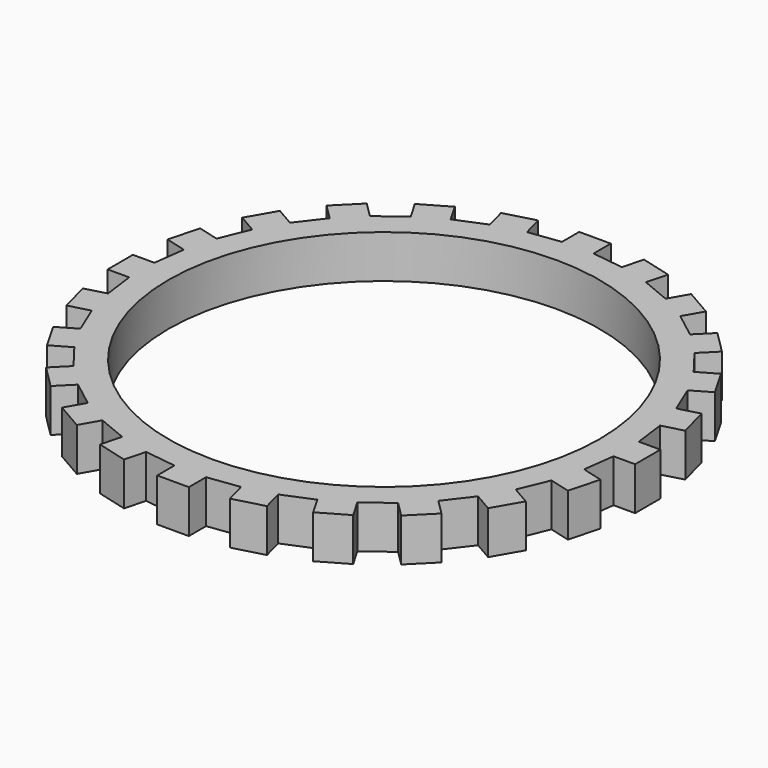
from build123d import *

# Parameters (mm, degrees)
SKETCH_R  = 15
PAD_DEPTH = 3


with BuildPart() as part:
    # Sketch → Pad (new body)
    with BuildSketch(Plane.XY):
        Polygon((-15.146858, 7.474872), (-16.445896, 8.224872), (-15.345896, 10.130128), (-14.046858, 9.380128), (-12.696102, 11.140467), (-13.756762, 12.201128), (-12.201128, 13.756762), (-11.140467, 12.696102), (-9.380128, 14.046858), (-10.130128, 15.345896), (-8.224872, 16.445896), (-7.474872, 15.146858), (-5.424913, 15.995979), (-5.813142, 17.444868), (-3.688105, 18.014269), (-3.299877, 16.565381), (-1.1, 16.855), (-1.1, 18.355), (1.1, 18.355), (1.1, 16.855), (3.299877, 16.565381), (3.688105, 18.014269), (5.813142, 17.444868), (5.424913, 15.995979), (7.474872, 15.146858), (8.224872, 16.445896), (10.130128, 15.345896), (9.380128, 14.046858), (11.140467, 12.696102), (12.201128, 13.756762), (13.756762, 12.201128), (12.696102, 11.140467), (14.046858, 9.380128), (15.345896, 10.130128), (16.445896, 8.224872), (15.146858, 7.474872), (15.997323, 5.424913), (17.446213, 5.813142), (18.015614, 3.688105), (16.566725, 3.299877), (16.854909, 1.1), (18.35491, 1.1), (18.355, -1.1), (16.85491, -1.1), (16.566725, -3.299877), (18.015614, -3.688105), (17.446212, -5.813142), (15.997323, -5.424913), (15.146858, -7.474872), (16.445896, -8.224872), (15.345896, -10.130128), (14.046858, -9.380128), (12.696102, -11.140467), (13.756762, -12.201128), (12.201128, -13.756762), (11.140467, -12.696102), (9.380128, -14.046858), (10.130128, -15.345896), (8.224872, -16.445896), (7.474872, -15.146858), (5.424913, -15.995979), (5.813142, -17.444868), (3.688105, -18.014269), (3.299877, -16.565381), (1.1, -16.855), (1.1, -18.355), (-1.1, -18.355), (-1.1, -16.855), (-3.299877, -16.565381), (-3.688105, -18.014269), (-5.813142, -17.444868), (-5.424913, -15.995979), (-7.474872, -15.146858), (-8.224872, -16.445896), (-10.130128, -15.345896), (-9.380128, -14.046858), (-11.140467, -12.696102), (-12.201128, -13.756762), (-13.756762, -12.201128), (-12.696102, -11.140467), (-14.046858, -9.380128), (-15.345896, -10.130128), (-16.445896, -8.224872), (-15.146858, -7.474872), (-15.997323, -5.424913), (-17.446212, -5.813142), (-18.015614, -3.688105), (-16.566725, -3.299877), (-16.854909, -1.1), (-18.354909, -1.1), (-18.354909, 1.1), (-16.854909, 1.1), (-16.566725, 3.299877), (-18.015614, 3.688105), (-17.446212, 5.813142), (-15.997323, 5.424913), align=None)
        Circle(SKETCH_R, mode=Mode.SUBTRACT)
    extrude(amount=PAD_DEPTH)


solid = part.part
